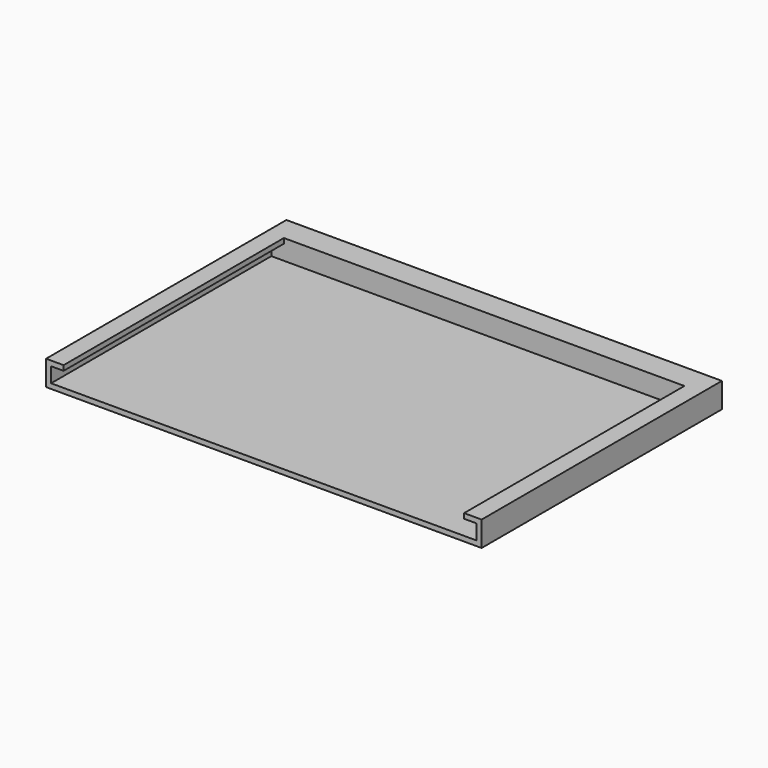
from build123d import *

# Parameters (mm, degrees)
PAD012_DEPTH = 110
BOX_W        = 174
BOX_H        = 120
BOX_DEPTH    = 10


with BuildPart() as pad012:
    # Sketch015 → Pad012 (new body)
    with BuildSketch(Plane.XZ.offset(-110)):
        Polygon((10, 12.723166), (10, 8), (5, 8), (5, 2), (175, 2), (175, 8), (170, 8), (170, 13), align=None)
    extrude(amount=PAD012_DEPTH)


with BuildPart() as pcb_holder:
    # Box → Box (new body)
    with BuildSketch(Plane(origin=(3, 0, 0), x_dir=(1, 0, 0), z_dir=(0, 0, 1))):
        with Locations((87, 60)):
            Rectangle(BOX_W, BOX_H)
    extrude(amount=BOX_DEPTH)

    # Cut003: cut Pad012
    add(pad012.part, mode=Mode.SUBTRACT)


with BuildPart() as pcb_holder_1:
    # Cut003 placement: moved
    add(pcb_holder.part.moved(Location((0, -30, 3))))


solid = pcb_holder_1.part
